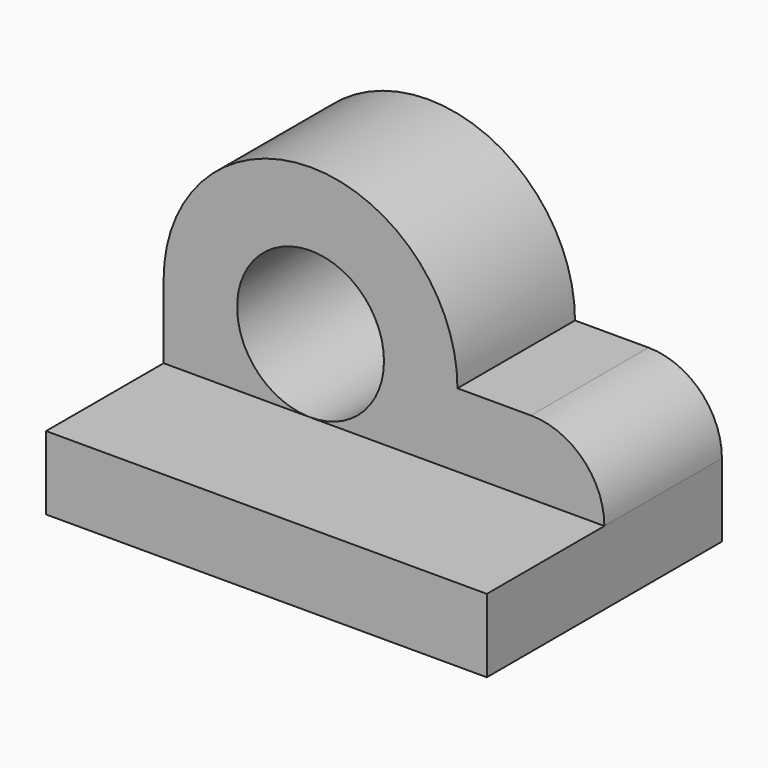
from build123d import *

# Parameters (mm, degrees)
F0_W     = 60
F0_H     = 10
F1_DEPTH = 40
F2_DEPTH = 20


with BuildPart() as f1:
    # F0 (on Front) → F1 (new body)
    with BuildSketch(Plane.XZ):
        with Locations((30, 5)):
            Rectangle(F0_W, F0_H)
    extrude(amount=F1_DEPTH)

    # F0 (on Front) → F2 (join)
    with BuildSketch(Plane.XZ):
        with BuildLine():
            ThreePointArc((40, 20), (20, 40), (0, 20))
            Line((0, 20), (10.005, 20))
            ThreePointArc((10.005, 20), (20, 29.995), (29.995, 20))
            Line((29.995, 20), (40, 20))
        make_face()
        with BuildLine():
            Line((0, 20), (0, 10))
            Line((0, 10), (60, 10))
            ThreePointArc((60, 10), (57.071068, 17.071068), (50, 20))
            Line((50, 20), (40, 20))
            Line((40, 20), (29.995, 20))
            ThreePointArc((29.995, 20), (20, 10.005), (10.005, 20))
            Line((10.005, 20), (0, 20))
        make_face()
    extrude(amount=F2_DEPTH)


solid = f1.part
